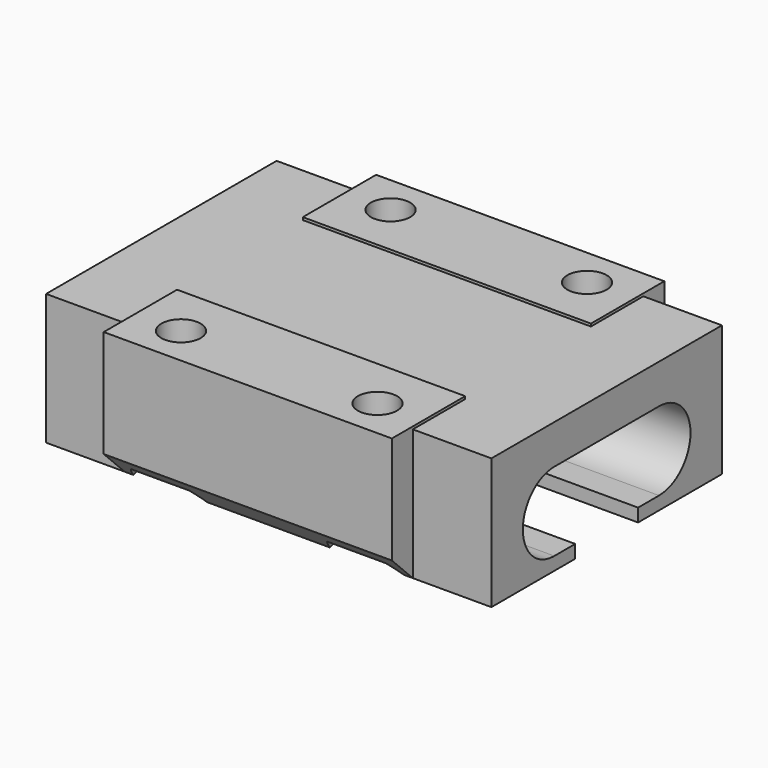
from build123d import *

# Parameters (mm, degrees)
BOX003_W                = 34
BOX003_H                = 10
BOX003_DEPTH            = 6
CYLINDER006_R           = 3
CYLINDER006_DEPTH       = 34
CYLINDER006_PITCH_ANGLE = 90
BOX004_W                = 34
BOX004_H                = 6
BOX004_DEPTH            = 1
CYLINDER005_R           = 3
CYLINDER005_DEPTH       = 34
CYLINDER005_PITCH_ANGLE = 90
CYLINDER008_R           = 3
CYLINDER008_DEPTH       = 1
CYLINDER004_R           = 1.5
CYLINDER004_DEPTH       = 11
CYLINDER009_R           = 3
CYLINDER009_DEPTH       = 1
CYLINDER003_R           = 1.5
CYLINDER003_DEPTH       = 11
CYLINDER010_R           = 3
CYLINDER010_DEPTH       = 1
CYLINDER002_R           = 1.5
CYLINDER002_DEPTH       = 11
CYLINDER007_R           = 3
CYLINDER007_DEPTH       = 1
CYLINDER001_R           = 1.5
CYLINDER001_DEPTH       = 11
BOX001_W                = 22
BOX001_H                = 7
BOX001_DEPTH            = 10.2
CHAMFER_SIZE            = 2
BOX002_W                = 22
BOX002_H                = 7
BOX002_DEPTH            = 10.2
CHAMFER001_SIZE         = 2
BOX_W                   = 34
BOX_H                   = 22
BOX_DEPTH               = 10


with BuildPart() as cube003:
    # Box003 → Box003 (new body)
    with BuildSketch(Plane(origin=(0, 6, 1), x_dir=(1, 0, 0), z_dir=(0, 0, 1))):
        with Locations((17, 5)):
            Rectangle(BOX003_W, BOX003_H)
    extrude(amount=BOX003_DEPTH)


with BuildPart() as cylinder006:
    # Cylinder006 → Cylinder006 (new body)
    with BuildSketch(Plane.XY):
        Circle(CYLINDER006_R)
    extrude(amount=CYLINDER006_DEPTH)


with BuildPart() as cylinder006_1:
    # Cylinder006 pitch: moved
    add(cylinder006.part.rotate(Axis((0, 0, 0), (0, 1, 0)), CYLINDER006_PITCH_ANGLE))


with BuildPart() as cylinder006_2:
    # Cylinder006 placement: moved
    add(cylinder006_1.part.moved(Location((0, 16, 4))))


with BuildPart() as cube004:
    # Box004 → Box004 (new body)
    with BuildSketch(Plane(origin=(0, 8, 0), x_dir=(1, 0, 0), z_dir=(0, 0, 1))):
        with Locations((17, 3)):
            Rectangle(BOX004_W, BOX004_H)
    extrude(amount=BOX004_DEPTH)


with BuildPart() as fusion005:
    # Cylinder005 → Cylinder005 (new body)
    with BuildSketch(Plane.XY):
        Circle(CYLINDER005_R)
    extrude(amount=CYLINDER005_DEPTH)


with BuildPart() as fusion005_1:
    # Cylinder005 pitch: moved
    add(fusion005.part.rotate(Axis((0, 0, 0), (0, 1, 0)), CYLINDER005_PITCH_ANGLE))


with BuildPart() as fusion005_2:
    # Cylinder005 placement: moved
    add(fusion005_1.part.moved(Location((0, 6, 4))))

    # Fusion005: union Cube003, Cylinder006, Cube004
    add(cube003.part)
    add(cylinder006_2.part)
    add(cube004.part)


with BuildPart() as cylinder008:
    # Cylinder008 → Cylinder008 (new body)
    with BuildSketch(Plane(origin=(25, 1.5, 0), x_dir=(1, 0, 0), z_dir=(0, 0, 1))):
        Circle(CYLINDER008_R)
    extrude(amount=CYLINDER008_DEPTH)


with BuildPart() as fusion004:
    # Cylinder004 → Cylinder004 (new body)
    with BuildSketch(Plane(origin=(25, 1.5, 0), x_dir=(1, 0, 0), z_dir=(0, 0, 1))):
        Circle(CYLINDER004_R)
    extrude(amount=CYLINDER004_DEPTH)

    # Fusion004: union Cylinder008
    add(cylinder008.part)


with BuildPart() as fusion004_1:
    # Fusion004 placement: moved
    add(fusion004.part.moved(Location((-0.5, -0.5, 0))))


with BuildPart() as cylinder009:
    # Cylinder009 → Cylinder009 (new body)
    with BuildSketch(Plane(origin=(9, 20.5, 0), x_dir=(1, 0, 0), z_dir=(0, 0, 1))):
        Circle(CYLINDER009_R)
    extrude(amount=CYLINDER009_DEPTH)


with BuildPart() as fusion003:
    # Cylinder003 → Cylinder003 (new body)
    with BuildSketch(Plane(origin=(9, 20.5, 0), x_dir=(1, 0, 0), z_dir=(0, 0, 1))):
        Circle(CYLINDER003_R)
    extrude(amount=CYLINDER003_DEPTH)

    # Fusion003: union Cylinder009
    add(cylinder009.part)


with BuildPart() as fusion003_1:
    # Fusion003 placement: moved
    add(fusion003.part.moved(Location((0.5, 0.5, 0))))


with BuildPart() as cylinder010:
    # Cylinder010 → Cylinder010 (new body)
    with BuildSketch(Plane(origin=(25, 20.5, 0), x_dir=(1, 0, 0), z_dir=(0, 0, 1))):
        Circle(CYLINDER010_R)
    extrude(amount=CYLINDER010_DEPTH)


with BuildPart() as fusion002:
    # Cylinder002 → Cylinder002 (new body)
    with BuildSketch(Plane(origin=(25, 20.5, 0), x_dir=(1, 0, 0), z_dir=(0, 0, 1))):
        Circle(CYLINDER002_R)
    extrude(amount=CYLINDER002_DEPTH)

    # Fusion002: union Cylinder010
    add(cylinder010.part)


with BuildPart() as fusion002_1:
    # Fusion002 placement: moved
    add(fusion002.part.moved(Location((-0.5, 0.5, 0))))


with BuildPart() as cylinder007:
    # Cylinder007 → Cylinder007 (new body)
    with BuildSketch(Plane(origin=(9, 1.5, 0), x_dir=(1, 0, 0), z_dir=(0, 0, 1))):
        Circle(CYLINDER007_R)
    extrude(amount=CYLINDER007_DEPTH)


with BuildPart() as fusion001:
    # Cylinder001 → Cylinder001 (new body)
    with BuildSketch(Plane(origin=(9, 1.5, 0), x_dir=(1, 0, 0), z_dir=(0, 0, 1))):
        Circle(CYLINDER001_R)
    extrude(amount=CYLINDER001_DEPTH)

    # Fusion001: union Cylinder007
    add(cylinder007.part)


with BuildPart() as fusion001_1:
    # Fusion001 placement: moved
    add(fusion001.part.moved(Location((0.5, -0.5, 0))))


with BuildPart() as chamfer_body:
    # Box001 → Box001 (new body)
    with BuildSketch(Plane(origin=(6, -2, 0), x_dir=(1, 0, 0), z_dir=(0, 0, 1))):
        with Locations((11, 3.5)):
            Rectangle(BOX001_W, BOX001_H)
    extrude(amount=BOX001_DEPTH)

    # Chamfer
    chamfer_edges = [chamfer_body.edges().sort_by_distance(p)[0] for p in [
        (17, -2, 0),
    ]]
    chamfer(chamfer_edges, length=CHAMFER_SIZE)


with BuildPart() as chamfer001:
    # Box002 → Box002 (new body)
    with BuildSketch(Plane(origin=(6, 17, 0), x_dir=(1, 0, 0), z_dir=(0, 0, 1))):
        with Locations((11, 3.5)):
            Rectangle(BOX002_W, BOX002_H)
    extrude(amount=BOX002_DEPTH)

    # Chamfer001
    chamfer001_edges = [chamfer001.edges().sort_by_distance(p)[0] for p in [
        (17, 24, 0),
    ]]
    chamfer(chamfer001_edges, length=CHAMFER001_SIZE)


with BuildPart() as do_not_print_igus_slider:
    # Box → Box (new body)
    with BuildSketch(Plane.XY):
        with Locations((17, 11)):
            Rectangle(BOX_W, BOX_H)
    extrude(amount=BOX_DEPTH)

    # Fusion: union Chamfer body, Chamfer001
    add(chamfer_body.part)
    add(chamfer001.part)

    # Cut: cut Fusion001
    add(fusion001_1.part, mode=Mode.SUBTRACT)

    # Cut001: cut Fusion002
    add(fusion002_1.part, mode=Mode.SUBTRACT)

    # Cut002: cut Fusion003
    add(fusion003_1.part, mode=Mode.SUBTRACT)

    # Cut003: cut Fusion004
    add(fusion004_1.part, mode=Mode.SUBTRACT)

    # Cut004: cut Fusion005
    add(fusion005_2.part, mode=Mode.SUBTRACT)


solid = do_not_print_igus_slider.part
